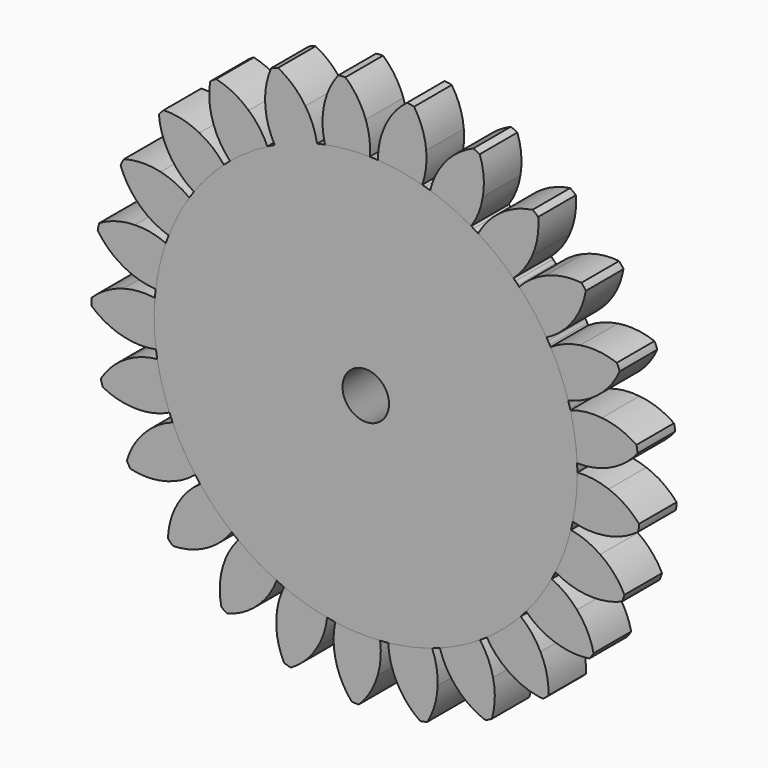
from build123d import *

# Parameters (mm, degrees)
F0_R     = 1.485
F1_DEPTH = 3
F2_COUNT = 25


with BuildPart() as f1:
    # F0 (on Front) → F1 (new body)
    with BuildSketch(Plane.XZ):
        with BuildLine():
            ThreePointArc((-2.595985, 13.248051), (-8.579167, -10.42343), (13.5, 0))
            ThreePointArc((13.5, 0), (9.636042, 9.454982), (0.256047, 13.497572))
            ThreePointArc((0.256047, 13.497572), (-1.176603, 13.448628), (-2.595985, 13.248051))
        make_face()
        Circle(F0_R, mode=Mode.SUBTRACT)
        with BuildLine():
            ThreePointArc((-2.595985, 13.248051), (-1.176603, 13.448628), (0.256047, 13.497572))
            ThreePointArc((0.256047, 13.497572), (0.237797, 14.512822), (0, 15.5))
            ThreePointArc((0, 15.5), (-0.523375, 16.558793), (-1.296209, 17.451929))
            ThreePointArc((-1.296209, 17.451929), (-1.526013, 17.442411), (-1.753979, 17.41188))
            ThreePointArc((-1.753979, 17.41188), (-2.35998, 16.398111), (-2.691547, 15.26452))
            ThreePointArc((-2.691547, 15.26452), (-2.75431, 14.251047), (-2.595985, 13.248051))
        make_face()
    extrude(amount=F1_DEPTH)


with BuildPart() as f2_1:
    # F2: instance of F1
    add(f1.part.rotate(Axis((0, 0, 0), (0, 1, 0)), 1 * 360 / F2_COUNT))


with BuildPart() as f2_2:
    # F2: instance of F1
    add(f1.part.rotate(Axis((0, 0, 0), (0, 1, 0)), 2 * 360 / F2_COUNT))


with BuildPart() as f2_3:
    # F2: instance of F1
    add(f1.part.rotate(Axis((0, 0, 0), (0, 1, 0)), 3 * 360 / F2_COUNT))


with BuildPart() as f2_4:
    # F2: instance of F1
    add(f1.part.rotate(Axis((0, 0, 0), (0, 1, 0)), 4 * 360 / F2_COUNT))


with BuildPart() as f2_5:
    # F2: instance of F1
    add(f1.part.rotate(Axis((0, 0, 0), (0, 1, 0)), 5 * 360 / F2_COUNT))


with BuildPart() as f2_6:
    # F2: instance of F1
    add(f1.part.rotate(Axis((0, 0, 0), (0, 1, 0)), 6 * 360 / F2_COUNT))


with BuildPart() as f2_7:
    # F2: instance of F1
    add(f1.part.rotate(Axis((0, 0, 0), (0, 1, 0)), 7 * 360 / F2_COUNT))


with BuildPart() as f2_8:
    # F2: instance of F1
    add(f1.part.rotate(Axis((0, 0, 0), (0, 1, 0)), 8 * 360 / F2_COUNT))


with BuildPart() as f2_9:
    # F2: instance of F1
    add(f1.part.rotate(Axis((0, 0, 0), (0, 1, 0)), 9 * 360 / F2_COUNT))


with BuildPart() as f2_10:
    # F2: instance of F1
    add(f1.part.rotate(Axis((0, 0, 0), (0, 1, 0)), 10 * 360 / F2_COUNT))


with BuildPart() as f2_11:
    # F2: instance of F1
    add(f1.part.rotate(Axis((0, 0, 0), (0, 1, 0)), 11 * 360 / F2_COUNT))


with BuildPart() as f2_12:
    # F2: instance of F1
    add(f1.part.rotate(Axis((0, 0, 0), (0, 1, 0)), 12 * 360 / F2_COUNT))


with BuildPart() as f2_13:
    # F2: instance of F1
    add(f1.part.rotate(Axis((0, 0, 0), (0, 1, 0)), 13 * 360 / F2_COUNT))


with BuildPart() as f2_14:
    # F2: instance of F1
    add(f1.part.rotate(Axis((0, 0, 0), (0, 1, 0)), 14 * 360 / F2_COUNT))


with BuildPart() as f2_15:
    # F2: instance of F1
    add(f1.part.rotate(Axis((0, 0, 0), (0, 1, 0)), 15 * 360 / F2_COUNT))


with BuildPart() as f2_16:
    # F2: instance of F1
    add(f1.part.rotate(Axis((0, 0, 0), (0, 1, 0)), 16 * 360 / F2_COUNT))


with BuildPart() as f2_17:
    # F2: instance of F1
    add(f1.part.rotate(Axis((0, 0, 0), (0, 1, 0)), 17 * 360 / F2_COUNT))


with BuildPart() as f2_18:
    # F2: instance of F1
    add(f1.part.rotate(Axis((0, 0, 0), (0, 1, 0)), 18 * 360 / F2_COUNT))


with BuildPart() as f2_19:
    # F2: instance of F1
    add(f1.part.rotate(Axis((0, 0, 0), (0, 1, 0)), 19 * 360 / F2_COUNT))


with BuildPart() as f2_20:
    # F2: instance of F1
    add(f1.part.rotate(Axis((0, 0, 0), (0, 1, 0)), 20 * 360 / F2_COUNT))


with BuildPart() as f2_21:
    # F2: instance of F1
    add(f1.part.rotate(Axis((0, 0, 0), (0, 1, 0)), 21 * 360 / F2_COUNT))


with BuildPart() as f2_22:
    # F2: instance of F1
    add(f1.part.rotate(Axis((0, 0, 0), (0, 1, 0)), 22 * 360 / F2_COUNT))


with BuildPart() as f2_23:
    # F2: instance of F1
    add(f1.part.rotate(Axis((0, 0, 0), (0, 1, 0)), 23 * 360 / F2_COUNT))


with BuildPart() as f2_24:
    # F2: instance of F1
    add(f1.part.rotate(Axis((0, 0, 0), (0, 1, 0)), 24 * 360 / F2_COUNT))


solid = Compound([f1.part, f2_1.part, f2_2.part, f2_3.part, f2_4.part, f2_5.part, f2_6.part, f2_7.part, f2_8.part, f2_9.part, f2_10.part, f2_11.part, f2_12.part, f2_13.part, f2_14.part, f2_15.part, f2_16.part, f2_17.part, f2_18.part, f2_19.part, f2_20.part, f2_21.part, f2_22.part, f2_23.part, f2_24.part])
